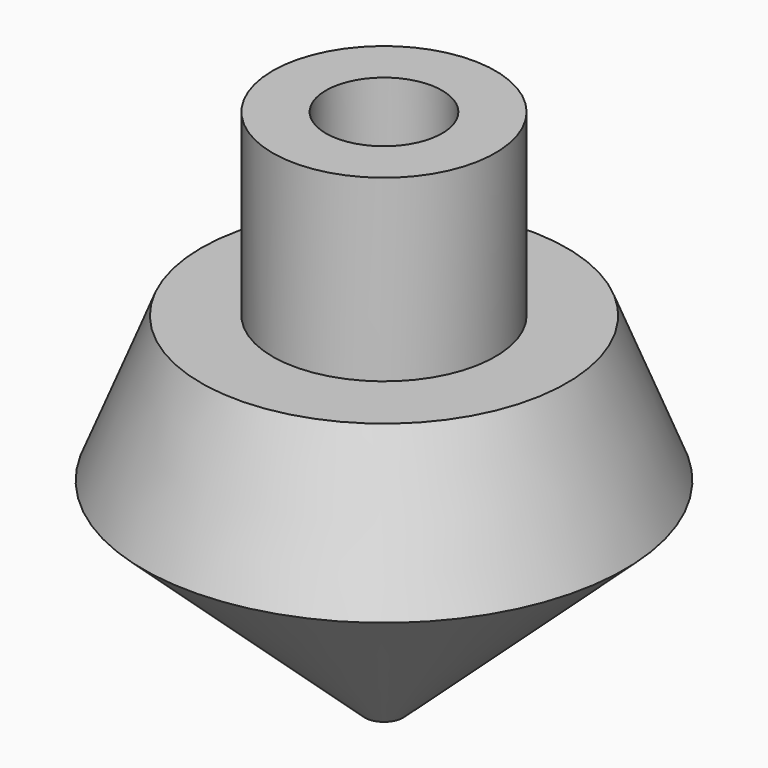
from build123d import *

# Parameters (mm, degrees)
F3_D     = 9.525
F3_DEPTH = 9.525
F3_TIP   = 2.8615986981
F4_R     = 1.5875
F5_DEPTH = 48.27


with BuildPart() as f1:
    # F0 (on Front) → F1 (revolve)
    with BuildSketch(Plane.XZ):
        Polygon((0, -44.6369265472), (0, 0), (-9.1277007014, 0), (-9.1277007014, -14.6898925304), (-14.9883243068, -14.6898925304), (-19.7362518723, -26.5907669723), align=None)
    revolve(axis=Axis((0, 0, -22.3184632736), (0, 0, -1)))

    # F3
    with Locations(Plane.XY):
        with Locations((0, 0)):
            Hole(F3_D / 2, depth=F3_DEPTH)
            with Locations((0, 0, -(F3_DEPTH + F3_TIP / 2))):  # 118° drill point
                Cone(0, F3_D / 2, F3_TIP, mode=Mode.SUBTRACT)

    # F4 (on Top) → F5 (cut)
    with BuildSketch(Plane.XY):
        Circle(F4_R)
    extrude(amount=-F5_DEPTH, mode=Mode.SUBTRACT)


solid = f1.part
